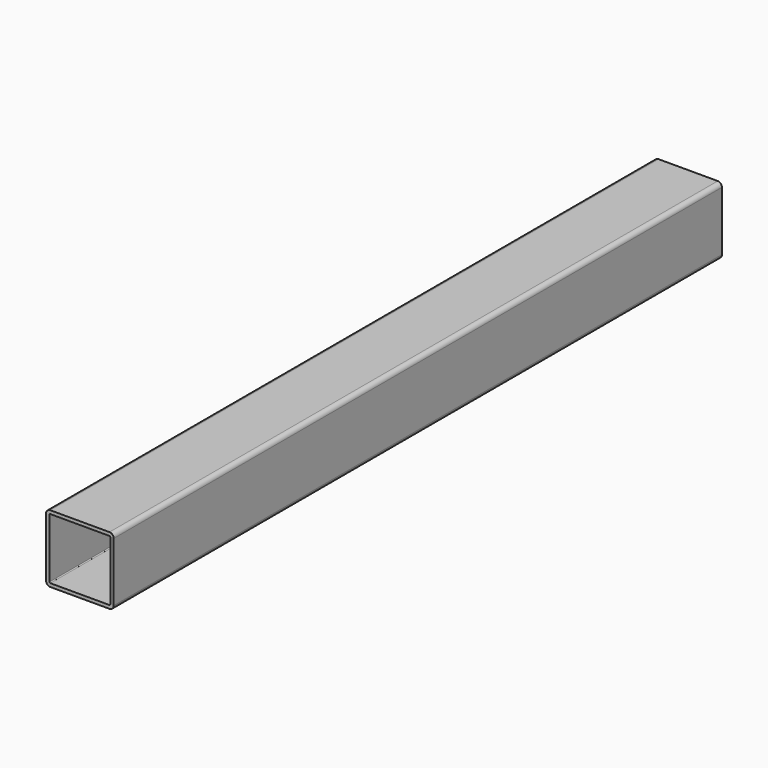
from build123d import *

# Parameters (mm, degrees)
F1_DEPTH = 900


with BuildPart() as f1:
    # F0 (on Front) → F1 (new body)
    with BuildSketch(Plane.XZ):
        with BuildLine():
            ThreePointArc((40, 35), (38.535534, 38.535534), (35, 40))
            Line((35, 40), (-35, 40))
            ThreePointArc((-35, 40), (-38.535534, 38.535534), (-40, 35))
            Line((-40, 35), (-40, -35))
            ThreePointArc((-40, -35), (-38.535534, -38.535534), (-35, -40))
            Line((-35, -40), (35, -40))
            ThreePointArc((35, -40), (38.535534, -38.535534), (40, -35))
            Line((40, -35), (40, 35))
        make_face()
        with BuildLine():
            ThreePointArc((-36, 35), (-35.707107, 35.707107), (-35, 36))
            Line((-35, 36), (35, 36))
            ThreePointArc((35, 36), (35.707107, 35.707107), (36, 35))
            Line((36, 35), (36, -35))
            ThreePointArc((36, -35), (35.707107, -35.707107), (35, -36))
            Line((35, -36), (-35, -36))
            ThreePointArc((-35, -36), (-35.707107, -35.707107), (-36, -35))
            Line((-36, -35), (-36, 35))
        make_face(mode=Mode.SUBTRACT)
    extrude(amount=-F1_DEPTH)


solid = f1.part
